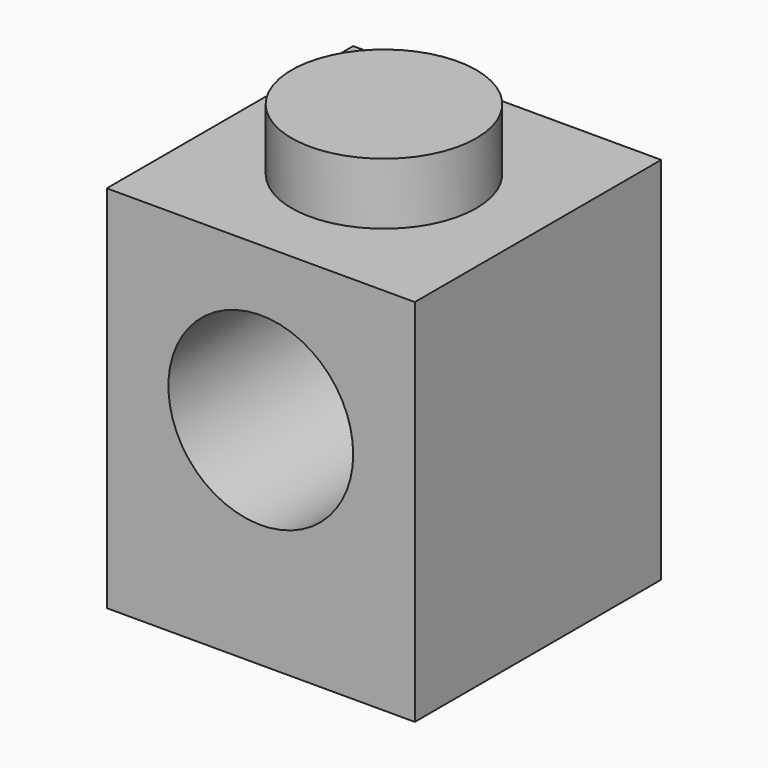
from build123d import *

# Parameters (mm, degrees)
F0_W     = 8
F0_H     = 8
F1_DEPTH = 9.6
F2_R     = 2.4
F3_DEPTH = 25
F4_R     = 2.4
F5_DEPTH = 1.6


with BuildPart() as f1:
    # F0 (on Top) → F1 (new body)
    with BuildSketch(Plane.XY):
        with Locations((5.493415, -3.433774)):
            Rectangle(F0_W, F0_H)
    extrude(amount=F1_DEPTH)

    # F2 (on face) → F3 (cut)
    with BuildSketch(Plane.XZ.offset(7.433774)):
        with Locations((5.493415, 5.6)):
            Circle(F2_R)
    extrude(amount=-F3_DEPTH, mode=Mode.SUBTRACT)

    # F4 (on face) → F5 (join)
    with BuildSketch(Plane.XY.offset(9.6)):
        with Locations((5.493415, -3.433774)):
            Circle(F4_R)
    extrude(amount=F5_DEPTH)


solid = f1.part
